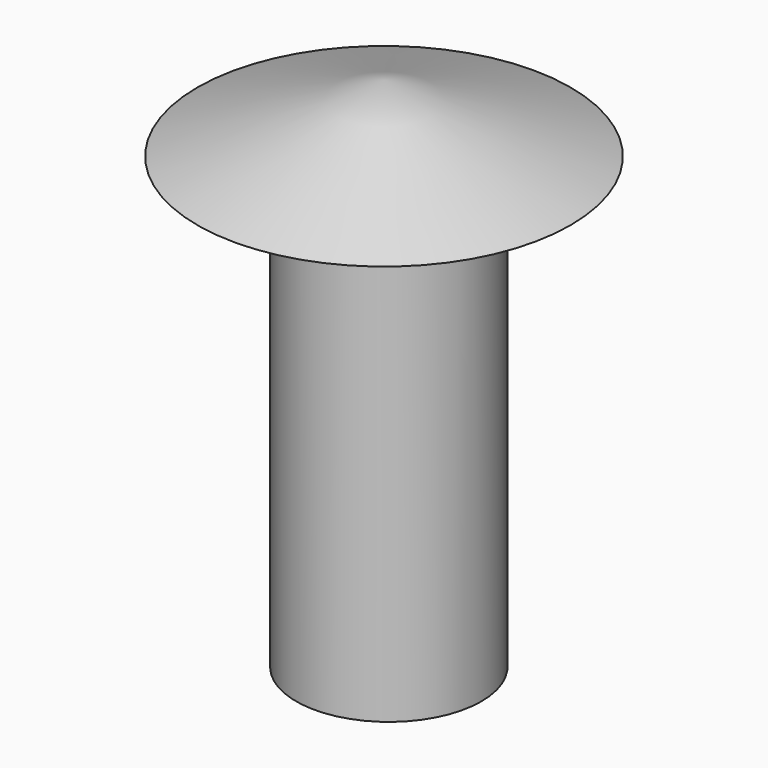
from build123d import *

# Parameters (mm, degrees)
F0_R     = 72.888918
F1_DEPTH = 349


with BuildPart() as f1:
    # F0 (on Top) → F1 (new body)
    with BuildSketch(Plane.XY):
        with Locations((-72.888918, 0)):
            Circle(F0_R)
    extrude(amount=F1_DEPTH)


with BuildPart() as f3:
    # F2 (on Front) → F3 (revolve)
    with BuildSketch(Plane.XZ):
        Polygon((-76.643877, 405.098289), (-76.643877, 350.871772), (70.086703, 352.466673), align=None)
    revolve(axis=Axis((-76.643877, 0, 377.98503), (0, 0, 1)))


solid = Compound([f1.part, f3.part])
